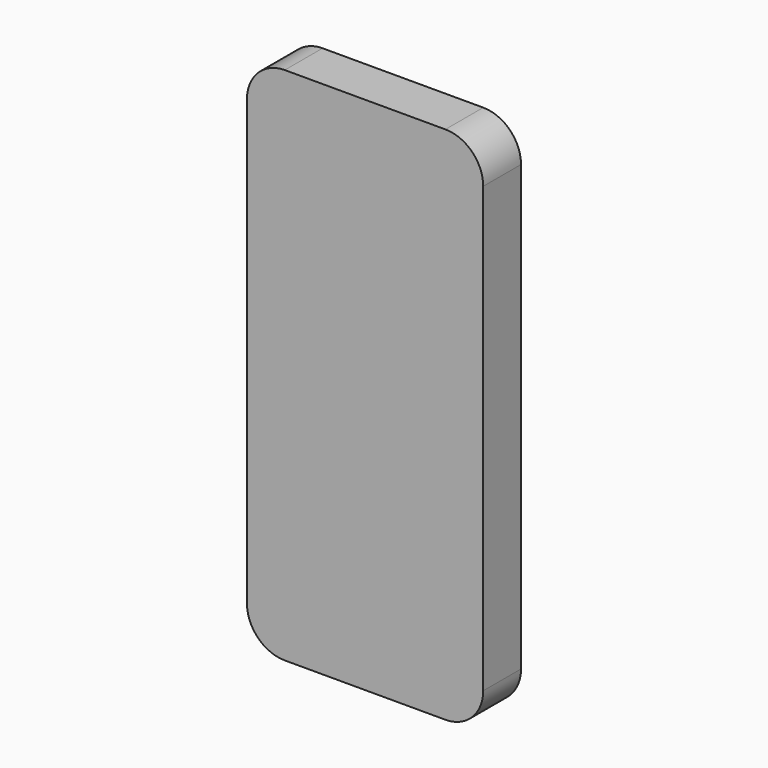
from build123d import *

# Parameters (mm, degrees)
F0_W     = 63.5
F0_H     = 139.7
F1_DEPTH = 12.7
F2_R     = 10.16
F3_R     = 10.16
F4_R     = 10.16
F5_R     = 10.16


with BuildPart() as f1:
    # F0 (on Front) → F1 (new body)
    with BuildSketch(Plane.XZ):
        with Locations((31.75, 69.85)):
            Rectangle(F0_W, F0_H)
    extrude(amount=-F1_DEPTH)

    # F2
    f2_edges = [f1.edges().sort_by_distance(p)[0] for p in [
        (63.5, 6.35, 139.7),
    ]]
    fillet(f2_edges, radius=F2_R)

    # F3
    f3_edges = [f1.edges().sort_by_distance(p)[0] for p in [
        (63.5, 6.35, 0),
    ]]
    fillet(f3_edges, radius=F3_R)

    # F4
    f4_edges = [f1.edges().sort_by_distance(p)[0] for p in [
        (0, 6.35, 139.7),
    ]]
    fillet(f4_edges, radius=F4_R)

    # F5
    f5_edges = [f1.edges().sort_by_distance(p)[0] for p in [
        (0, 6.35, 0),
    ]]
    fillet(f5_edges, radius=F5_R)


solid = f1.part
